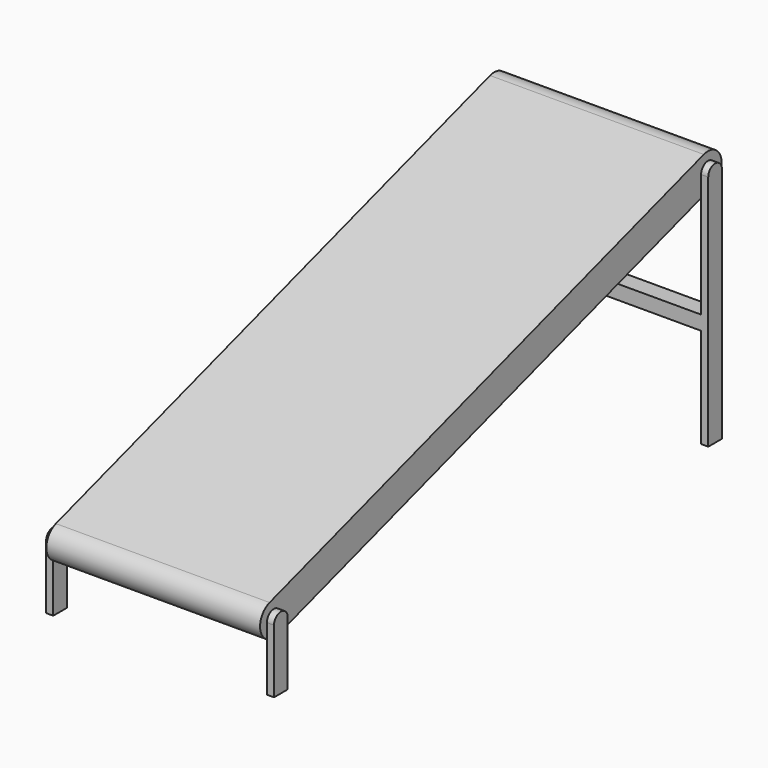
from build123d import *

# Parameters (mm, degrees)
F1_DEPTH = 375
F3_DEPTH = 25
F5_W     = 60
F5_H     = 50
F6_DEPTH = 750


with BuildPart() as f1:
    # F0 (on Right) → F1 (new body, symmetric)
    with BuildSketch(Plane.YZ):
        with BuildLine():
            Line((934.052350761, 890), (-970.652350761, 280))
            ThreePointArc((-970.652350761, 280), (-1009.4934918067, 204.5588589543), (-934.052350761, 165.7177179087))
            Line((-934.052350761, 165.7177179087), (970.652350761, 775.7177179087))
            ThreePointArc((970.652350761, 775.7177179087), (1009.4934918067, 851.1588589543), (934.052350761, 890))
        make_face()
    extrude(amount=F1_DEPTH, both=True)

    # F2 (on face) → F3 (join)
    with BuildSketch(Plane.YZ.offset(375)):
        with BuildLine():
            Line((-982.352350761, 222.8588589543), (-982.352350761, 0))
            Line((-982.352350761, 0), (-922.352350761, 0))
            Line((-922.352350761, 0), (-922.352350761, 222.8588589543))
            ThreePointArc((-922.352350761, 222.8588589543), (-952.352350761, 252.8588589543), (-982.352350761, 222.8588589543))
        make_face()
        with BuildLine():
            Line((922.352350761, 832.8588589543), (922.352350761, 0))
            Line((922.352350761, 0), (982.352350761, 0))
            Line((982.352350761, 0), (982.352350761, 832.8588589543))
            ThreePointArc((982.352350761, 832.8588589543), (952.352350761, 862.8588589543), (922.352350761, 832.8588589543))
        make_face()
    extrude(amount=F3_DEPTH)

    # F4: F1 across plane


with BuildPart() as f1_1:
    add(f1.part)
    add(f1.part.mirror(Plane.YZ))

    # F5 (on face) → F6 (join, through all)
    with BuildSketch(Plane.YZ.offset(-375)):
        with Locations((952.352350761, 375)):
            Rectangle(F5_W, F5_H)
    extrude(amount=F6_DEPTH)


solid = f1_1.part
